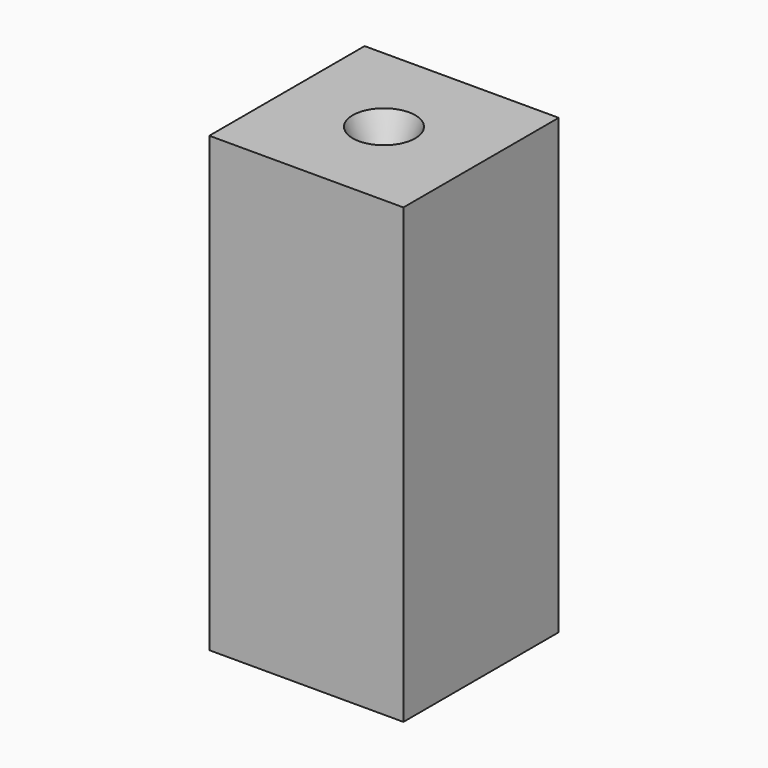
from build123d import *

# Parameters (mm, degrees)
BOX013_W          = 18
BOX013_H          = 18
BOX013_DEPTH      = 36
CYLINDER006_R     = 1
CYLINDER006_DEPTH = 70
BOX011_W          = 18
BOX011_H          = 18
BOX011_DEPTH      = 4
ARRAY005_Z_COUNT  = 2
ARRAY005_Z_PITCH  = 32
BOX012_W          = 18
BOX012_H          = 18
BOX012_DEPTH      = 36
BOX010_W          = 18
BOX010_H          = 18
BOX010_DEPTH      = 42
FILLET_R          = 5


with BuildPart() as cube013:
    # Box013 → Box013 (new body)
    with BuildSketch(Plane(origin=(-2, 14, 3.3), x_dir=(1, 0, 0), z_dir=(0, 0, 1))):
        with Locations((9, 9)):
            Rectangle(BOX013_W, BOX013_H)
    extrude(amount=BOX013_DEPTH)


with BuildPart() as cylinder006:
    # Cylinder006 → Cylinder006 (new body)
    with BuildSketch(Plane(origin=(9, 9, -17), x_dir=(1, 0, 0), z_dir=(0, 0, 1))):
        Circle(CYLINDER006_R)
    extrude(amount=CYLINDER006_DEPTH)


with BuildPart() as array005:
    # Box011 → Box011 (new body)
    with BuildSketch(Plane(origin=(-5, 5, 3.3), x_dir=(1, 0, 0), z_dir=(0, 0, 1))):
        with Locations((9, 9)):
            Rectangle(BOX011_W, BOX011_H)
    extrude(amount=BOX011_DEPTH)

    # Array005 Z: Array005 ×2


with BuildPart() as array005_1:
    add(array005.part)
    with Locations(*[(0, 0, i * ARRAY005_Z_PITCH) for i in range(1, ARRAY005_Z_COUNT)]):
        add(array005.part)


with BuildPart() as cone:
    # Cone → Cone (revolve)
    with BuildSketch(Plane(origin=(9, 9, 0), x_dir=(1, 0, 0), z_dir=(0, -1, 0))):
        Polygon((0, 0), (2.9, 0), (1.5, 3.5), (0, 3.5), align=None)
    revolve(axis=Axis((9, 9, 0), (0, 0, 1)))


with BuildPart() as cone001:
    # Cone001 → Cone001 (revolve)
    with BuildSketch(Plane(origin=(9, 9, 38.5), x_dir=(1, 0, 0), z_dir=(0, -1, 0))):
        Polygon((0, 0), (1.5, 0), (2.9, 3.5), (0, 3.5), align=None)
    revolve(axis=Axis((9, 9, 38.5), (0, 0, 1)))


with BuildPart() as fusion003:
    # Box012 → Box012 (new body)
    with BuildSketch(Plane(origin=(-14, 2, 3.3), x_dir=(1, 0, 0), z_dir=(0, 0, 1))):
        with Locations((9, 9)):
            Rectangle(BOX012_W, BOX012_H)
    extrude(amount=BOX012_DEPTH)

    # Fusion003: union Cube013, Cylinder006, Array005, Cone, Cone001
    add(cube013.part)
    add(cylinder006.part)
    add(array005_1.part)
    add(cone.part)
    add(cone001.part)


with BuildPart() as corner_clone:
    # Box010 → Box010 (new body)
    with BuildSketch(Plane.XY):
        with Locations((9, 9)):
            Rectangle(BOX010_W, BOX010_H)
    extrude(amount=BOX010_DEPTH)

    # Cut005: cut Fusion003
    add(fusion003.part, mode=Mode.SUBTRACT)

    # Fillet
    fillet_edges = [corner_clone.edges().sort_by_distance(p)[0] for p in [
        (4, 14, 21.3),
    ]]
    fillet(fillet_edges, radius=FILLET_R)


solid = corner_clone.part
